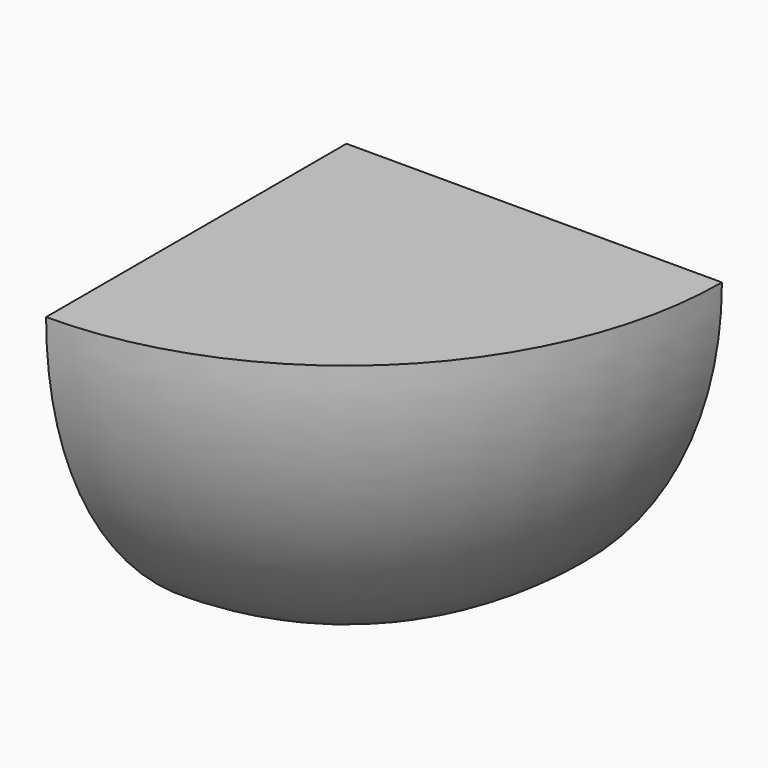
from build123d import *

# Parameters (mm, degrees)
F1_ANGLE = 90


with BuildPart() as f1:
    # F0 (on Front) → F1 (revolve)
    with BuildSketch(Plane.XZ):
        with BuildLine():
            Line((0, 0), (0, -25))
            ThreePointArc((0, -25), (17.67767, -17.67767), (25, 0))
            Line((25, 0), (0, 0))
        make_face()
    revolve(axis=Axis((0, 0, -12.5), (0, 0, -1)), revolution_arc=F1_ANGLE)


solid = f1.part
